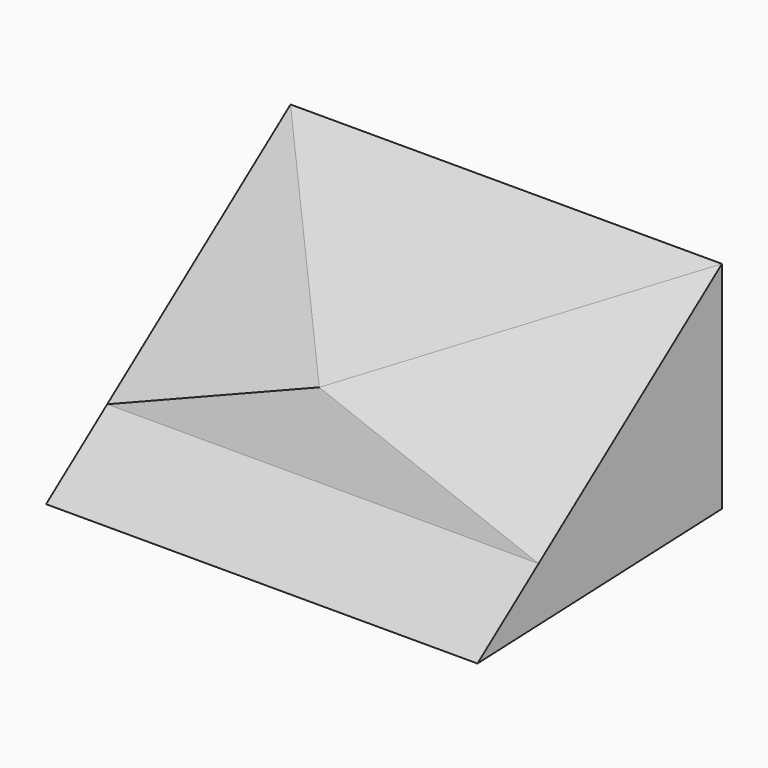
from build123d import *

# Parameters (mm, degrees)
F0_W      = 7
F0_H      = 3
F1_DEPTH  = 4
F5_W      = 7
F5_H      = 5
F6_DEPTH  = 25
F9_DEPTH  = 25
F12_DEPTH = 25
F15_W     = 10.8853101265
F15_H     = 4.9926914508
F16_DEPTH = 25
F2_W      = 0.4919341039
F2_H      = 0.3611877114
F18_DEPTH = 1
F25_DEPTH = 25


with BuildPart() as f1:
    # F0 (on Top) → F1 (new body)
    with BuildSketch(Plane.XY):
        with Locations((3.5, 1.5)):
            Rectangle(F0_W, F0_H)
    extrude(amount=F1_DEPTH)

    # F5 (on 3pt) → F6 (cut)
    with BuildSketch(Plane(origin=(0, 0, 0), x_dir=(-1, 0, 0), z_dir=(0, 0.8, -0.6))):
        with Locations((-3.5, 2.5)):
            Rectangle(F5_W, F5_H)
    extrude(amount=-F6_DEPTH, mode=Mode.SUBTRACT)

    # F8 (on 3pt) → F9 (cut)
    with BuildSketch(Plane(origin=(5.4, -1.8, 0), x_dir=(-0.316227766, -0.9486832981, 0), z_dir=(-0.9486832981, 0.316227766, 0))):
        Polygon((-1.8973665961, 0), (-5.0596442563, 4), (-5.0596442563, 1), (-5.0596442563, 0), align=None)
    extrude(amount=-F9_DEPTH, mode=Mode.SUBTRACT)

    # F11 (on 3pt) → F12 (cut)
    with BuildSketch(Plane(origin=(0, 0, 0), x_dir=(0, -1, 0), z_dir=(-0.9701425001, 0, 0.242535625))):
        Polygon((0, 0), (-3, 4.1231056256), (-3, 0), align=None)
    extrude(amount=F12_DEPTH, mode=Mode.SUBTRACT)

    # F15 (on 3pt) → F16 (cut)
    with BuildSketch(Plane(origin=(0, 0, 0), x_dir=(1, 0, 0), z_dir=(0, -0.316227766, 0.9486832981))):
        with Locations((3.1432170654, 1.333998458)):
            Rectangle(F15_W, F15_H)
    extrude(amount=-F16_DEPTH, mode=Mode.SUBTRACT)

    # F20 (on 3pt) → F21 section 0
    with BuildSketch(Plane(origin=(0, 0.4705882353, -0.1176470588), x_dir=(1, 0, 0), z_dir=(0, -0.9701425001, 0.242535625)), mode=Mode.PRIVATE) as f21_s0:
        Polygon((3, 2.1828206253), (0.25, 1.1520442189), (6.25, 1.1520442189), align=None)
    loft([f21_s0.sketch, Vertex(1, 3, 4)])

    # F23 (on 3pt) → F24 section 0
    with BuildSketch(Plane(origin=(0.08, -0.56, 0.4), x_dir=(-0.9933109617, -0.0939618477, 0.0671156055), z_dir=(-0.1154700538, 0.8082903769, -0.5773502692)), mode=Mode.PRIVATE) as f24_s0:
        Polygon((-6.211549291, 1.2496621165), (-2.9396635218, 2.2087051361), (-6.9665998531, 4.998648466), align=None)
    loft([f24_s0.sketch, Vertex(1, 3, 4)])


with BuildPart() as f18:
    # F2 (on face) → F18 (new body)
    with BuildSketch(Plane.XZ):
        with Locations((2.7540329481, 2.1805938557)):
            Rectangle(F2_W, F2_H)
    extrude(amount=F18_DEPTH)

    # F25 (cut): a face of the model
    f25_faces = [f18.faces().sort_by_distance(p)[0] for p in [
        (2.7540329481, 0, 2.1805938557),
    ]]
    extrude(f25_faces, amount=-F25_DEPTH, mode=Mode.SUBTRACT)


solid = f1.part
